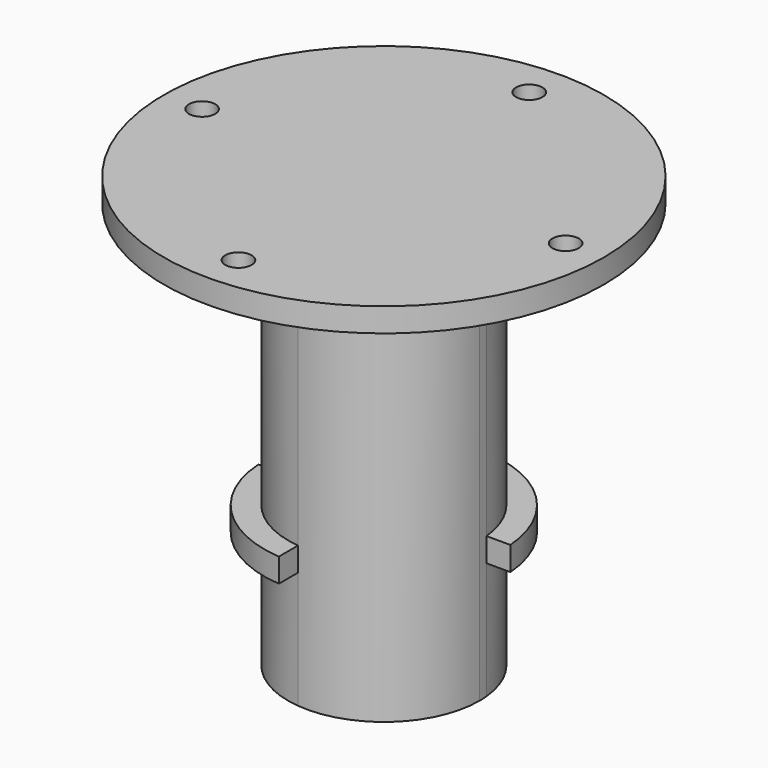
from build123d import *

# Parameters (mm, degrees)
F0_R     = 15
F1_DEPTH = 85
F2_START = -55.5
F2_DEPTH = 5
F0_R_2   = 45.9785362142
F0_R_3   = 30.9785362142
F3_DEPTH = 5
F4_D     = 5.5


with BuildPart() as f1:
    # F0 (on Top) → F1 (new body)
    with BuildSketch(Plane.XY):
        with BuildLine():
            ThreePointArc((-2.0070793107, -19.8990359726), (13.4137693022, -14.8347832174), (20, 0))
            ThreePointArc((20, 0), (19.9774791244, 0.9488560661), (19.9099672166, 1.8955752254))
            ThreePointArc((19.9099672166, 1.8955752254), (14.1024891574, 14.1816712543), (1.7840696499, 19.9202684591))
            ThreePointArc((1.7840696499, 19.9202684591), (-14.0813060571, 14.2027046624), (-19.9348491456, -1.6130063683))
            ThreePointArc((-19.9348491456, -1.6130063683), (-14.2813436261, -14.0015436375), (-2.0070793107, -19.8990359726))
        make_face()
        Circle(F0_R, mode=Mode.SUBTRACT)
    extrude(amount=-F1_DEPTH)

    # F0 (on Top) → F2 (join)
    with BuildSketch(Plane.XY.offset(F2_START)):
        with BuildLine():
            ThreePointArc((1.7840696499, 19.9202684591), (14.1024891574, 14.1816712543), (19.9099672166, 1.8955752254))
            Line((19.9099672166, 1.8955752254), (24.9280323043, 1.8955752254))
            ThreePointArc((24.9280323043, 1.8955752254), (17.6380949645, 17.7171556979), (1.7840696499, 24.9362606556))
            Line((1.7840696499, 24.9362606556), (1.7840696499, 19.9202684591))
        make_face()
        with BuildLine():
            Line((-2.0070793107, -24.9193024108), (-2.0070793107, -19.8990359726))
            ThreePointArc((-2.0070793107, -19.8990359726), (-14.2813436261, -14.0015436375), (-19.9348491456, -1.6130063683))
            Line((-19.9348491456, -1.6130063683), (-24.9479099416, -1.6130063683))
            ThreePointArc((-24.9479099416, -1.6130063683), (-17.8168100457, -17.5374251188), (-2.0070793107, -24.9193024108))
        make_face()
    extrude(amount=-F2_DEPTH)

    # F0 (on Top) → F3 (join)
    with BuildSketch(Plane.XY):
        Circle(F0_R_2)
        Circle(F0_R_3, mode=Mode.SUBTRACT)
        Circle(F0_R_3)
        with BuildLine():
            ThreePointArc((19.9099672166, 1.8955752254), (19.9774791244, 0.9488560661), (20, 0))
            ThreePointArc((20, 0), (13.4137693022, -14.8347832174), (-2.0070793107, -19.8990359726))
            Line((-2.0070793107, -19.8990359726), (-2.0070793107, -24.9193024108))
            ThreePointArc((-2.0070793107, -24.9193024108), (-17.8168100457, -17.5374251188), (-24.9479099416, -1.6130063683))
            Line((-24.9479099416, -1.6130063683), (-19.9348491456, -1.6130063683))
            ThreePointArc((-19.9348491456, -1.6130063683), (-14.0813060571, 14.2027046624), (1.7840696499, 19.9202684591))
            Line((1.7840696499, 19.9202684591), (1.7840696499, 24.9362606556))
            ThreePointArc((1.7840696499, 24.9362606556), (17.6380949645, 17.7171556979), (24.9280323043, 1.8955752254))
            Line((24.9280323043, 1.8955752254), (19.9099672166, 1.8955752254))
        make_face(mode=Mode.SUBTRACT)
        with BuildLine():
            ThreePointArc((-2.0070793107, -19.8990359726), (13.4137693022, -14.8347832174), (20, 0))
            ThreePointArc((20, 0), (19.9774791244, 0.9488560661), (19.9099672166, 1.8955752254))
            ThreePointArc((19.9099672166, 1.8955752254), (14.1024891574, 14.1816712543), (1.7840696499, 19.9202684591))
            ThreePointArc((1.7840696499, 19.9202684591), (-14.0813060571, 14.2027046624), (-19.9348491456, -1.6130063683))
            ThreePointArc((-19.9348491456, -1.6130063683), (-14.2813436261, -14.0015436375), (-2.0070793107, -19.8990359726))
        make_face()
        Circle(F0_R, mode=Mode.SUBTRACT)
        Circle(F0_R)
        with BuildLine():
            Line((-2.0070793107, -24.9193024108), (-2.0070793107, -19.8990359726))
            ThreePointArc((-2.0070793107, -19.8990359726), (-14.2813436261, -14.0015436375), (-19.9348491456, -1.6130063683))
            Line((-19.9348491456, -1.6130063683), (-24.9479099416, -1.6130063683))
            ThreePointArc((-24.9479099416, -1.6130063683), (-17.8168100457, -17.5374251188), (-2.0070793107, -24.9193024108))
        make_face()
        with BuildLine():
            ThreePointArc((1.7840696499, 19.9202684591), (14.1024891574, 14.1816712543), (19.9099672166, 1.8955752254))
            Line((19.9099672166, 1.8955752254), (24.9280323043, 1.8955752254))
            ThreePointArc((24.9280323043, 1.8955752254), (17.6380949645, 17.7171556979), (1.7840696499, 24.9362606556))
            Line((1.7840696499, 24.9362606556), (1.7840696499, 19.9202684591))
        make_face()
    extrude(amount=F3_DEPTH)

    # F4 (through all)
    with Locations(Plane(origin=(0, 0, 0), x_dir=(1, 0, 0), z_dir=(0, 0, -1))):
        with Locations((0, -37.9785362142), (-37.9785362142, 0), (0, 37.9785362142), (37.9785362142, 0)):
            Hole(F4_D / 2)


solid = f1.part
